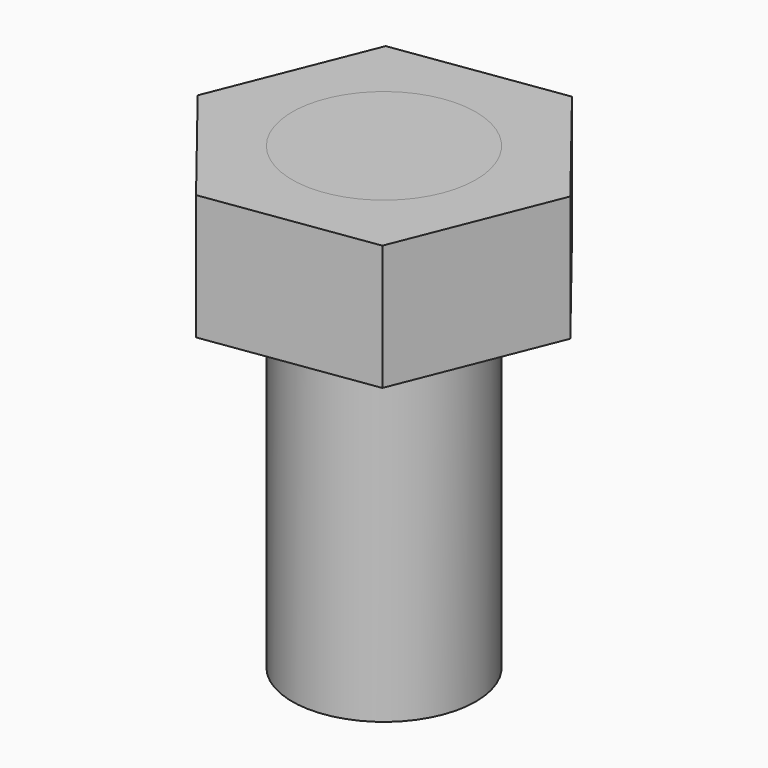
from build123d import *

# Parameters (mm, degrees)
F0_R     = 11
F1_DEPTH = 40
F2_DEPTH = 15
F3_DEPTH = 15


with BuildPart() as f1:
    # F0 (on Top) → F1 (new body)
    with BuildSketch(Plane.XY):
        with Locations((-13.7481692702, 22.2620804769)):
            Circle(F0_R)
    extrude(amount=-F1_DEPTH)


with BuildPart() as f2:
    # F0 (on Top) → F2 (new body)
    with BuildSketch(Plane.XY):
        Polygon((6.2513423017, 25.1522137299), (-6.2513423017, 41.0272321879), (-26.2508538735, 38.137098935), (-33.7476808421, 19.371947224), (-21.2449962388, 3.4969287659), (-1.2454846669, 6.3870620189), align=None)
        with Locations((-13.7481692702, 22.2620804769)):
            Circle(F0_R, mode=Mode.SUBTRACT)
    extrude(amount=F2_DEPTH)


with BuildPart() as f3:
    # F3 (new): a face of the model
    f3_faces = [f1.part.faces().sort_by_distance(p)[0] for p in [
        (-13.7481692702, 22.2620804769, 0),
    ]]
    extrude(f3_faces, amount=F3_DEPTH)


solid = Compound([f1.part, f2.part, f3.part])
